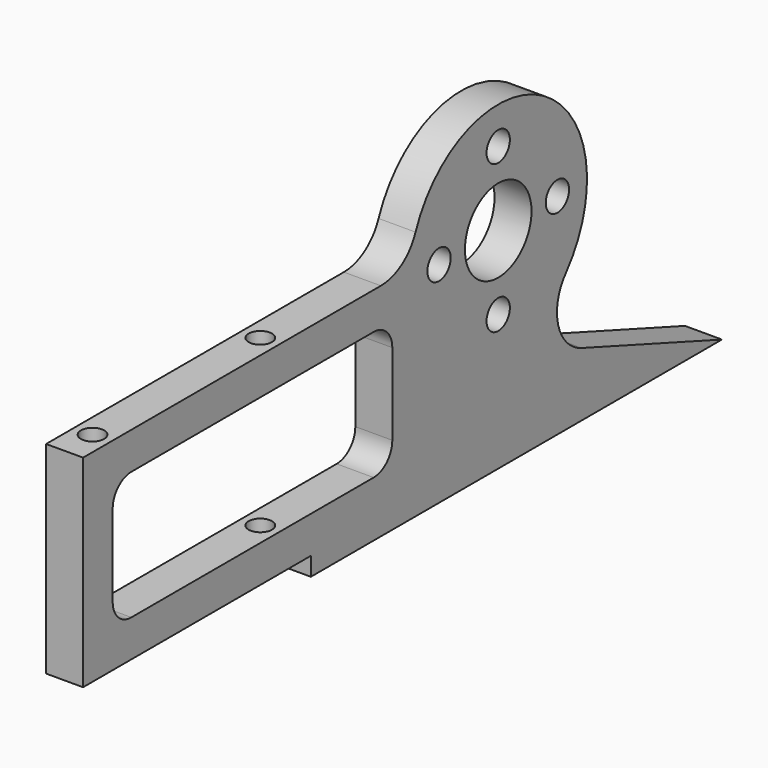
from build123d import *

# Parameters (mm, degrees)
F0_R     = 2.5
F0_R_2   = 7.144
F1_DEPTH = 6.35
F2_W     = 6.35
F2_H     = 38
F3_DEPTH = 37.876
F5_D     = 4
F5_DEPTH = 12
F5_TIP   = 1.2017212381
F7_D     = 4
F7_DEPTH = 12
F7_TIP   = 1.2017212381


with BuildPart() as f1:
    # F0 (on Right) → F1 (new body)
    with BuildSketch(Plane.YZ):
        with BuildLine():
            ThreePointArc((17.8751346366, -25.0354456965), (12.8773903734, -19.5640491806), (14.5155336292, -12.3370086917))
            ThreePointArc((14.5155336292, -12.3370086917), (9.7791608288, 16.348410121), (-17.735210007, 6.9544824399))
            ThreePointArc((-17.735210007, 6.9544824399), (-20.675525796, 3.2657587243), (-25.1830672278, 1.875))
            Line((-25.1830672278, 1.875), (-127.076, 1.875))
            Line((-127.076, 1.875), (-127.076, -4.475))
            Line((-127.076, -4.475), (-93.076, -4.475))
            ThreePointArc((-93.076, -4.475), (-90.2475728753, -5.6465728753), (-89.076, -8.475))
            Line((-89.076, -8.475), (-89.076, -22.475))
            ThreePointArc((-89.076, -22.475), (-90.2475728753, -25.3034271247), (-93.076, -26.475))
            Line((-93.076, -26.475), (-127.076, -26.475))
            Line((-127.076, -26.475), (-127.076, -32.825))
            Line((-127.076, -32.825), (-40.201, -32.825))
            Line((-40.201, -32.825), (-40.201, -36))
            Line((-40.201, -36), (48, -36))
            Line((48, -36), (17.8751346366, -25.0354456965))
        make_face()
        with BuildLine():
            ThreePointArc((-82.726, -8.475), (-81.5544271247, -5.6465728753), (-78.726, -4.475))
            Line((-78.726, -4.475), (-26.726, -4.475))
            ThreePointArc((-26.726, -4.475), (-23.8975728753, -5.6465728753), (-22.726, -8.475))
            Line((-22.726, -8.475), (-22.726, -22.475))
            ThreePointArc((-22.726, -22.475), (-23.8975728753, -25.3034271247), (-26.726, -26.475))
            Line((-26.726, -26.475), (-78.726, -26.475))
            ThreePointArc((-78.726, -26.475), (-81.5544271247, -25.3034271247), (-82.726, -22.475))
            Line((-82.726, -22.475), (-82.726, -8.475))
        make_face(mode=Mode.SUBTRACT)
        with Locations((0, -12.7)):
            Circle(F0_R, mode=Mode.SUBTRACT)
        with Locations((-12.7, 0)):
            Circle(F0_R, mode=Mode.SUBTRACT)
        Circle(F0_R_2, mode=Mode.SUBTRACT)
        with Locations((12.7, 0)):
            Circle(F0_R, mode=Mode.SUBTRACT)
        with Locations((0, 12.7)):
            Circle(F0_R, mode=Mode.SUBTRACT)
    extrude(amount=F1_DEPTH)

    # F2 (on face) → F3 (cut, through all)
    with BuildSketch(Plane.XY.offset(1.875)):
        with Locations((3.175, -108.076)):
            Rectangle(F2_W, F2_H)
    extrude(amount=-F3_DEPTH, mode=Mode.SUBTRACT)

    # F5
    with Locations(Plane.XY.offset(1.875)):
        with Locations((3.175, -83.076), (3.175, -47.076)):
            Hole(F5_D / 2, depth=F5_DEPTH)
            with Locations((0, 0, -(F5_DEPTH + F5_TIP / 2))):  # 118° drill point
                Cone(0, F5_D / 2, F5_TIP, mode=Mode.SUBTRACT)

    # F7
    with Locations(Plane(origin=(0, 0, -32.825), x_dir=(1, 0, 0), z_dir=(0, 0, -1))):
        with Locations((3.175, 83.076), (3.175, 47.076)):
            Hole(F7_D / 2, depth=F7_DEPTH)
            with Locations((0, 0, -(F7_DEPTH + F7_TIP / 2))):  # 118° drill point
                Cone(0, F7_D / 2, F7_TIP, mode=Mode.SUBTRACT)


solid = f1.part
